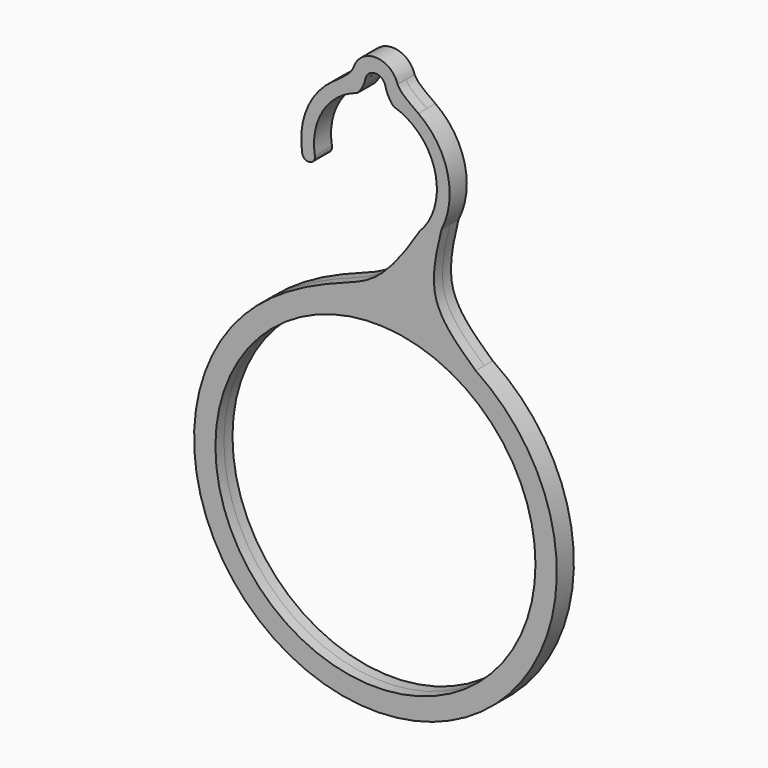
from build123d import *

# Parameters (mm, degrees)
F0_R     = 37.5
F1_DEPTH = 2.5


with BuildPart() as f1:
    # F0 (on Front) → F1 (new body, symmetric)
    with BuildSketch(Plane.XZ):
        with BuildLine():
            ThreePointArc((23.495791584, -34.5144310796), (-2.7972530191, -27.5212402414), (-27.9439404953, -37.9074340379))
            ThreePointArc((-27.9439404953, -37.9074340379), (-17.5873893593, -108.6193138327), (42.5, -69.9290859253))
            ThreePointArc((42.5, -69.9290859253), (37.4487726255, -49.8333294369), (23.495791584, -34.5144310796))
        make_face()
        with Locations((0, -69.9290859253)):
            Circle(F0_R, mode=Mode.SUBTRACT)
        with BuildLine():
            add(Edge.make_bspline(
                [(5.1920566863, 18.5723408589), (5.4030836199, 18.1737175795), (6.009346047, 17.0894557175), (8.4647401185, 15.2993210086), (10.0607038312, 14.1674244584)],
                knots=[0, 0, 0, 0, 0.353980682, 1, 1, 1, 1], degree=3))
            ThreePointArc((5.1920566863, 18.5723408589), (0, 22.4882426928), (-5.1920566863, 18.5723408589))
            add(Edge.make_bspline(
                [(-5.1920566863, 18.5723408589), (-5.4030836199, 18.1737175795), (-6.009346047, 17.0894557175), (-8.4647401185, 15.2993210086), (-10.0607038312, 14.1674244584)],
                knots=[0, 0, 0, 0, 0.353980682, 1, 1, 1, 1], degree=3))
            ThreePointArc((-10.0607038312, 14.1674244584), (-16.0703171245, 6.6420670409), (-17.1570047894, -2.9269227761))
            ThreePointArc((-17.1570047894, -2.9269227761), (-16.488459767, -3.9392853203), (-15.2897240847, -4.1260020361))
            ThreePointArc((-15.2897240847, -4.1260020361), (-14.4157806287, -3.4876204113), (-14.1989005153, -2.4273038173))
            ThreePointArc((-14.1989005153, -2.4273038173), (-12.2569494075, 7.5291203707), (-4.2325370023, 13.7347921529))
            ThreePointArc((-4.2325370023, 13.7347921529), (-3.0879498251, 15.2971102039), (-2.3815860794, 17.1004315168))
            ThreePointArc((-2.3815860794, 17.1004315168), (-2.3733660378, 17.1550903584), (-2.3638894327, 17.2095454042))
            ThreePointArc((-2.3638894327, 17.2095454042), (-0.0049388321, 19.1708665497), (2.3550204808, 17.2107592534))
            ThreePointArc((2.3550204808, 17.2107592534), (3.060795291, 15.3469315093), (4.2325370023, 13.7347921529))
            ThreePointArc((4.2325370023, 13.7347921529), (13.9491841539, 3.5458163369), (10.330929233, -10.0606781189))
            add(Edge.make_bspline(
                [(10.330929233, -10.0606781189), (7.0163060906, -15.4310663182), (0.8325115992, -23.801862272), (-9.7668403245, -26.9773220336), (-21.5660588981, -32.3417266701), (-27.9439404953, -37.9074340379)],
                knots=[0, 0, 0, 0, 0.3399679741, 0.609879003, 1, 1, 1, 1], degree=3))
            ThreePointArc((-27.9439404953, -37.9074340379), (-2.7972530191, -27.5212402414), (23.495791584, -34.5144310796))
            add(Edge.make_bspline(
                [(15.4707114186, -7.9926174921), (14.2001866213, -13.2718644657), (11.6427356628, -23.7542991739), (19.5641259536, -30.9373140161), (23.495791584, -34.5144310796)],
                knots=[0, 0, 0, 0, 0.5020174455, 1, 1, 1, 1], degree=3))
            ThreePointArc((15.4707114186, -7.9926174921), (16.9035545368, 4.0975903429), (10.0607038312, 14.1674244584))
        make_face()
        with BuildLine():
            ThreePointArc((-2.3638894327, 17.2095454042), (-2.3733660378, 17.1550903584), (-2.3815860794, 17.1004315168))
            ThreePointArc((-2.3815860794, 17.1004315168), (-2.3680946087, 17.1555451395), (-2.3550204808, 17.2107592534))
            ThreePointArc((-2.3550204808, 17.2107592534), (-2.3594550348, 17.2101528992), (-2.3638894327, 17.2095454042))
        make_face()
    extrude(amount=F1_DEPTH, both=True)


solid = f1.part
